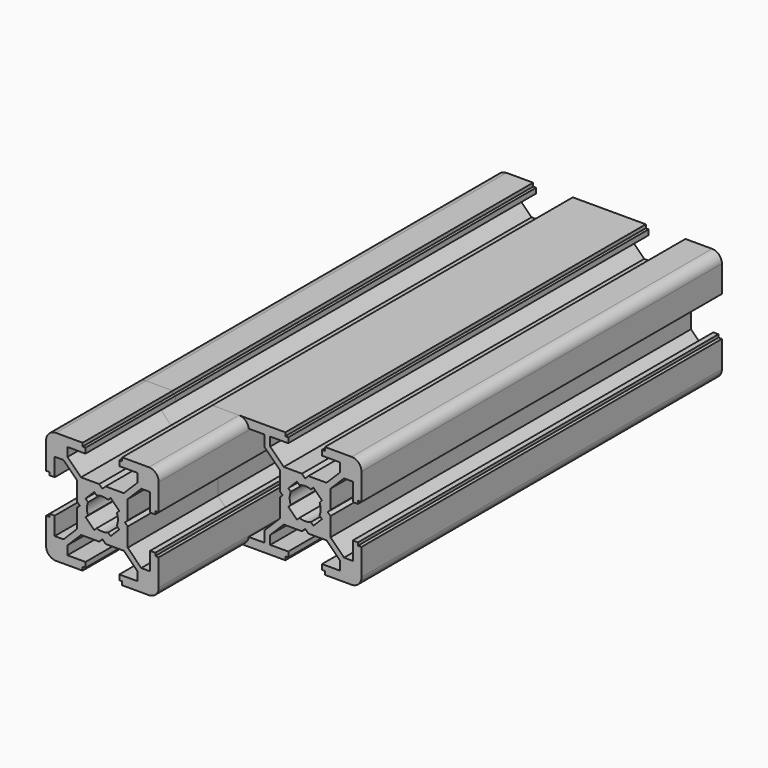
from build123d import *

# Parameters (mm, degrees)
F2_DEPTH = 100
F3_DEPTH = 80


with BuildPart() as f2:
    # F0 (on Front) → F2 (new body)
    with BuildSketch(Plane.XZ):
        with BuildLine():
            Line((-3.523474, 10.086026), (-8.255161, 10.086026))
            ThreePointArc((-8.255161, 10.086026), (-9.492598, 9.573463), (-10.005161, 8.336026))
            Line((-10.005161, 8.336026), (-10.005161, 3.604339))
            Line((-10.005161, 3.604339), (-9.389876, 3.604339))
            Line((-9.389876, 3.604339), (-9.389876, 3.086026))
            Line((-9.389876, 3.086026), (-8.469533, 3.086026))
            Line((-8.469533, 3.086026), (-8.469533, 6.286026))
            Line((-8.469533, 6.286026), (-6.905161, 6.286026))
            Line((-6.905161, 6.286026), (-4.505161, 3.886026))
            Line((-4.505161, 3.886026), (-4.505161, 0.564101))
            Line((-4.505161, 0.564101), (-4.002375, 0.086026))
            Line((-4.002375, 0.086026), (-4.505161, -0.392048))
            Line((-4.505161, -0.392048), (-4.505161, -3.713974))
            Line((-4.505161, -3.713974), (-6.905161, -6.113974))
            Line((-6.905161, -6.113974), (-8.469533, -6.113974))
            Line((-8.469533, -6.113974), (-8.469533, -2.913974))
            Line((-8.469533, -2.913974), (-9.389876, -2.913974))
            Line((-9.389876, -2.913974), (-9.389876, -3.432287))
            Line((-9.389876, -3.432287), (-10.005161, -3.432287))
            Line((-10.005161, -3.432287), (-10.005161, -8.163974))
            ThreePointArc((-10.005161, -8.163974), (-9.492598, -9.401411), (-8.255161, -9.913974))
            Line((-8.255161, -9.913974), (-3.523474, -9.913974))
            Line((-3.523474, -9.913974), (-3.523474, -9.298689))
            Line((-3.523474, -9.298689), (-3.005161, -9.298689))
            Line((-3.005161, -9.298689), (-3.005161, -8.378345))
            Line((-3.005161, -8.378345), (-6.205161, -8.378345))
            Line((-6.205161, -8.378345), (-6.205161, -6.813974))
            Line((-6.205161, -6.813974), (-3.805161, -4.413974))
            Line((-3.805161, -4.413974), (-0.576097, -4.413974))
            Line((-0.576097, -4.413974), (-0.005161, -3.843038))
            Line((-0.005161, -3.843038), (0.565775, -4.413974))
            Line((0.565775, -4.413974), (3.794839, -4.413974))
            Line((3.794839, -4.413974), (6.194839, -6.813974))
            Line((6.194839, -6.813974), (6.194839, -8.378345))
            Line((6.194839, -8.378345), (2.994839, -8.378345))
            Line((2.994839, -8.378345), (2.994839, -9.298689))
            Line((2.994839, -9.298689), (3.513152, -9.298689))
            Line((3.513152, -9.298689), (3.513152, -9.913974))
            Line((3.513152, -9.913974), (8.244839, -9.913974))
            ThreePointArc((8.244839, -9.913974), (9.482276, -9.401411), (9.994839, -8.163974))
            Line((9.994839, -8.163974), (9.994839, -3.432287))
            Line((9.994839, -3.432287), (9.379554, -3.432287))
            Line((9.379554, -3.432287), (9.379554, -2.913974))
            Line((9.379554, -2.913974), (8.459211, -2.913974))
            Line((8.459211, -2.913974), (8.459211, -6.113974))
            Line((8.459211, -6.113974), (6.894839, -6.113974))
            Line((6.894839, -6.113974), (4.494839, -3.713974))
            Line((4.494839, -3.713974), (4.494839, -0.392048))
            Line((4.494839, -0.392048), (3.992053, 0.086026))
            Line((3.992053, 0.086026), (4.494839, 0.564101))
            Line((4.494839, 0.564101), (4.494839, 3.886026))
            Line((4.494839, 3.886026), (6.894839, 6.286026))
            Line((6.894839, 6.286026), (8.459211, 6.286026))
            Line((8.459211, 6.286026), (8.459211, 3.086026))
            Line((8.459211, 3.086026), (9.379554, 3.086026))
            Line((9.379554, 3.086026), (9.379554, 3.604339))
            Line((9.379554, 3.604339), (9.994839, 3.604339))
            Line((9.994839, 3.604339), (9.994839, 8.336026))
            ThreePointArc((9.994839, 8.336026), (9.482276, 9.573463), (8.244839, 10.086026))
            Line((8.244839, 10.086026), (3.513152, 10.086026))
            Line((3.513152, 10.086026), (3.513152, 9.470741))
            Line((3.513152, 9.470741), (2.994839, 9.470741))
            Line((2.994839, 9.470741), (2.994839, 8.550398))
            Line((2.994839, 8.550398), (6.194839, 8.550398))
            Line((6.194839, 8.550398), (6.194839, 6.986026))
            Line((6.194839, 6.986026), (3.794839, 4.586026))
            Line((3.794839, 4.586026), (0.565775, 4.586026))
            Line((0.565775, 4.586026), (-0.005161, 4.01509))
            Line((-0.005161, 4.01509), (-0.576097, 4.586026))
            Line((-0.576097, 4.586026), (-3.805161, 4.586026))
            Line((-3.805161, 4.586026), (-6.205161, 6.986026))
            Line((-6.205161, 6.986026), (-6.205161, 8.550398))
            Line((-6.205161, 8.550398), (-3.005161, 8.550398))
            Line((-3.005161, 8.550398), (-3.005161, 9.470741))
            Line((-3.005161, 9.470741), (-3.523474, 9.470741))
            Line((-3.523474, 9.470741), (-3.523474, 10.086026))
        make_face()
        with BuildLine():
            ThreePointArc((-1.022849, 2.640789), (-0.005161, 2.836026), (1.012527, 2.640789))
            Line((1.012527, 2.640789), (1.446784, 3.075046))
            Line((1.446784, 3.075046), (2.983859, 1.537972))
            Line((2.983859, 1.537972), (2.549602, 1.103714))
            ThreePointArc((2.549602, 1.103714), (2.744839, 0.086026), (2.549602, -0.931661))
            Line((2.549602, -0.931661), (2.983859, -1.365919))
            Line((2.983859, -1.365919), (1.446784, -2.902994))
            Line((1.446784, -2.902994), (1.012527, -2.468736))
            ThreePointArc((1.012527, -2.468736), (-0.005161, -2.663974), (-1.022849, -2.468736))
            Line((-1.022849, -2.468736), (-1.457106, -2.902994))
            Line((-1.457106, -2.902994), (-2.994181, -1.365919))
            Line((-2.994181, -1.365919), (-2.559924, -0.931661))
            ThreePointArc((-2.559924, -0.931661), (-2.755161, 0.086026), (-2.559924, 1.103714))
            Line((-2.559924, 1.103714), (-2.994181, 1.537972))
            Line((-2.994181, 1.537972), (-1.457106, 3.075046))
            Line((-1.457106, 3.075046), (-1.022849, 2.640789))
        make_face(mode=Mode.SUBTRACT)
    extrude(amount=F2_DEPTH)


with BuildPart() as f3:
    # F1 (on Front) → F3 (new body)
    with BuildSketch(Plane.XZ):
        with BuildLine():
            Line((-3.523474, 9.470741), (-3.523474, 10.086026))
            Line((-3.523474, 10.086026), (-8.255161, 10.086026))
            ThreePointArc((-8.255161, 10.086026), (-9.492598, 9.573463), (-10.005161, 8.336026))
            Line((-10.005161, 8.336026), (-10.005161, 3.604339))
            Line((-10.005161, 3.604339), (-9.389876, 3.604339))
            Line((-9.389876, 3.604339), (-9.389876, 3.086026))
            Line((-9.389876, 3.086026), (-8.469533, 3.086026))
            Line((-8.469533, 3.086026), (-8.469533, 6.286026))
            Line((-8.469533, 6.286026), (-6.905161, 6.286026))
            Line((-6.905161, 6.286026), (-4.505161, 3.886026))
            Line((-4.505161, 3.886026), (-4.505161, 0.564101))
            Line((-4.505161, 0.564101), (-4.002375, 0.086026))
            Line((-4.002375, 0.086026), (-4.505161, -0.392048))
            Line((-4.505161, -0.392048), (-4.505161, -3.713974))
            Line((-4.505161, -3.713974), (-6.905161, -6.113974))
            Line((-6.905161, -6.113974), (-8.469533, -6.113974))
            Line((-8.469533, -6.113974), (-8.469533, -2.913974))
            Line((-8.469533, -2.913974), (-9.389876, -2.913974))
            Line((-9.389876, -2.913974), (-9.389876, -3.432287))
            Line((-9.389876, -3.432287), (-10.005161, -3.432287))
            Line((-10.005161, -3.432287), (-10.005161, -8.163974))
            ThreePointArc((-10.005161, -8.163974), (-9.492598, -9.401411), (-8.255161, -9.913974))
            Line((-8.255161, -9.913974), (-3.523474, -9.913974))
            Line((-3.523474, -9.913974), (-3.523474, -9.298689))
            Line((-3.523474, -9.298689), (-3.005161, -9.298689))
            Line((-3.005161, -9.298689), (-3.005161, -8.378345))
            Line((-3.005161, -8.378345), (-6.205161, -8.378345))
            Line((-6.205161, -8.378345), (-6.205161, -6.813974))
            Line((-6.205161, -6.813974), (-3.805161, -4.413974))
            Line((-3.805161, -4.413974), (-0.576097, -4.413974))
            Line((-0.576097, -4.413974), (-0.005161, -3.843038))
            Line((-0.005161, -3.843038), (0.565775, -4.413974))
            Line((0.565775, -4.413974), (3.794839, -4.413974))
            Line((3.794839, -4.413974), (6.194839, -6.813974))
            Line((6.194839, -6.813974), (6.194839, -8.378345))
            Line((6.194839, -8.378345), (2.994839, -8.378345))
            Line((2.994839, -8.378345), (2.994839, -9.298689))
            Line((2.994839, -9.298689), (3.513152, -9.298689))
            Line((3.513152, -9.298689), (3.513152, -9.913974))
            Line((3.513152, -9.913974), (16.476526, -9.913974))
            Line((16.476526, -9.913974), (16.476526, -9.298689))
            Line((16.476526, -9.298689), (16.994839, -9.298689))
            Line((16.994839, -9.298689), (16.994839, -8.378345))
            Line((16.994839, -8.378345), (13.794839, -8.378345))
            Line((13.794839, -8.378345), (13.794839, -6.813974))
            Line((13.794839, -6.813974), (16.194839, -4.413974))
            Line((16.194839, -4.413974), (19.423903, -4.413974))
            Line((19.423903, -4.413974), (19.994839, -3.843038))
            Line((19.994839, -3.843038), (20.565775, -4.413974))
            Line((20.565775, -4.413974), (23.794839, -4.413974))
            Line((23.794839, -4.413974), (26.194839, -6.813974))
            Line((26.194839, -6.813974), (26.194839, -8.378345))
            Line((26.194839, -8.378345), (22.994839, -8.378345))
            Line((22.994839, -8.378345), (22.994839, -9.298689))
            Line((22.994839, -9.298689), (23.513152, -9.298689))
            Line((23.513152, -9.298689), (23.513152, -9.913974))
            Line((23.513152, -9.913974), (28.244839, -9.913974))
            ThreePointArc((28.244839, -9.913974), (29.482276, -9.401411), (29.994839, -8.163974))
            Line((29.994839, -8.163974), (29.994839, -3.432287))
            Line((29.994839, -3.432287), (29.379554, -3.432287))
            Line((29.379554, -3.432287), (29.379554, -2.913974))
            Line((29.379554, -2.913974), (28.459211, -2.913974))
            Line((28.459211, -2.913974), (28.459211, -6.113974))
            Line((28.459211, -6.113974), (26.894839, -6.113974))
            Line((26.894839, -6.113974), (24.494839, -3.713974))
            Line((24.494839, -3.713974), (24.494839, -0.392048))
            Line((24.494839, -0.392048), (23.992053, 0.086026))
            Line((23.992053, 0.086026), (24.494839, 0.564101))
            Line((24.494839, 0.564101), (24.494839, 3.886026))
            Line((24.494839, 3.886026), (26.894839, 6.286026))
            Line((26.894839, 6.286026), (28.459211, 6.286026))
            Line((28.459211, 6.286026), (28.459211, 3.086026))
            Line((28.459211, 3.086026), (29.379554, 3.086026))
            Line((29.379554, 3.086026), (29.379554, 3.604339))
            Line((29.379554, 3.604339), (29.994839, 3.604339))
            Line((29.994839, 3.604339), (29.994839, 8.336026))
            ThreePointArc((29.994839, 8.336026), (29.482276, 9.573463), (28.244839, 10.086026))
            Line((28.244839, 10.086026), (23.513152, 10.086026))
            Line((23.513152, 10.086026), (23.513152, 9.470741))
            Line((23.513152, 9.470741), (22.994839, 9.470741))
            Line((22.994839, 9.470741), (22.994839, 8.550398))
            Line((22.994839, 8.550398), (26.194839, 8.550398))
            Line((26.194839, 8.550398), (26.194839, 6.986026))
            Line((26.194839, 6.986026), (23.794839, 4.586026))
            Line((23.794839, 4.586026), (20.565775, 4.586026))
            Line((20.565775, 4.586026), (19.994839, 4.01509))
            Line((19.994839, 4.01509), (19.423903, 4.586026))
            Line((19.423903, 4.586026), (16.194839, 4.586026))
            Line((16.194839, 4.586026), (13.794839, 6.986026))
            Line((13.794839, 6.986026), (13.794839, 8.550398))
            Line((13.794839, 8.550398), (16.994839, 8.550398))
            Line((16.994839, 8.550398), (16.994839, 9.470741))
            Line((16.994839, 9.470741), (16.476526, 9.470741))
            Line((16.476526, 9.470741), (16.476526, 10.086026))
            Line((16.476526, 10.086026), (3.513152, 10.086026))
            Line((3.513152, 10.086026), (3.513152, 9.470741))
            Line((3.513152, 9.470741), (2.994839, 9.470741))
            Line((2.994839, 9.470741), (2.994839, 8.550398))
            Line((2.994839, 8.550398), (6.194839, 8.550398))
            Line((6.194839, 8.550398), (6.194839, 6.986026))
            Line((6.194839, 6.986026), (3.794839, 4.586026))
            Line((3.794839, 4.586026), (0.565775, 4.586026))
            Line((0.565775, 4.586026), (-0.005161, 4.01509))
            Line((-0.005161, 4.01509), (-0.576097, 4.586026))
            Line((-0.576097, 4.586026), (-3.805161, 4.586026))
            Line((-3.805161, 4.586026), (-6.205161, 6.986026))
            Line((-6.205161, 6.986026), (-6.205161, 8.550398))
            Line((-6.205161, 8.550398), (-3.005161, 8.550398))
            Line((-3.005161, 8.550398), (-3.005161, 9.470741))
            Line((-3.005161, 9.470741), (-3.523474, 9.470741))
        make_face()
        with BuildLine():
            Line((1.012527, 2.640789), (1.446784, 3.075046))
            Line((1.446784, 3.075046), (2.983859, 1.537972))
            Line((2.983859, 1.537972), (2.549602, 1.103714))
            ThreePointArc((2.549602, 1.103714), (2.744839, 0.086026), (2.549602, -0.931661))
            Line((2.549602, -0.931661), (2.983859, -1.365919))
            Line((2.983859, -1.365919), (1.446784, -2.902994))
            Line((1.446784, -2.902994), (1.012527, -2.468736))
            ThreePointArc((1.012527, -2.468736), (-0.005161, -2.663974), (-1.022849, -2.468736))
            Line((-1.022849, -2.468736), (-1.457106, -2.902994))
            Line((-1.457106, -2.902994), (-2.994181, -1.365919))
            Line((-2.994181, -1.365919), (-2.559924, -0.931661))
            ThreePointArc((-2.559924, -0.931661), (-2.755161, 0.086026), (-2.559924, 1.103714))
            Line((-2.559924, 1.103714), (-2.994181, 1.537972))
            Line((-2.994181, 1.537972), (-1.457106, 3.075046))
            Line((-1.457106, 3.075046), (-1.022849, 2.640789))
            ThreePointArc((-1.022849, 2.640789), (-0.005161, 2.836026), (1.012527, 2.640789))
        make_face(mode=Mode.SUBTRACT)
        Polygon((7.184789, -6.403924), (4.494839, -3.713974), (4.494839, -0.392048), (3.992053, 0.086026), (4.494839, 0.564101), (4.494839, 3.886026), (7.184789, 6.567413), (7.184789, 8.550398), (12.804889, 8.550398), (12.804889, 6.567413), (15.494839, 3.886026), (15.494839, 0.564101), (15.997625, 0.086026), (15.494839, -0.392048), (15.494839, -3.713974), (12.804889, -6.403924), (12.804889, -8.378345), (7.184789, -8.378345), align=None, mode=Mode.SUBTRACT)
        with BuildLine():
            Line((17.005819, -1.365919), (17.440076, -0.931661))
            ThreePointArc((17.440076, -0.931661), (17.244839, 0.086026), (17.440076, 1.103714))
            Line((17.440076, 1.103714), (17.005819, 1.537972))
            Line((17.005819, 1.537972), (18.542894, 3.075046))
            Line((18.542894, 3.075046), (18.977151, 2.640789))
            ThreePointArc((18.977151, 2.640789), (19.994839, 2.836026), (21.012527, 2.640789))
            Line((21.012527, 2.640789), (21.446784, 3.075046))
            Line((21.446784, 3.075046), (22.983859, 1.537972))
            Line((22.983859, 1.537972), (22.549602, 1.103714))
            ThreePointArc((22.549602, 1.103714), (22.744839, 0.086026), (22.549602, -0.931661))
            Line((22.549602, -0.931661), (22.983859, -1.365919))
            Line((22.983859, -1.365919), (21.446784, -2.902994))
            Line((21.446784, -2.902994), (21.012527, -2.468736))
            ThreePointArc((21.012527, -2.468736), (19.994839, -2.663974), (18.977151, -2.468736))
            Line((18.977151, -2.468736), (18.542894, -2.902994))
            Line((18.542894, -2.902994), (17.005819, -1.365919))
        make_face(mode=Mode.SUBTRACT)
    extrude(amount=F3_DEPTH)


solid = Compound([f2.part, f3.part])
